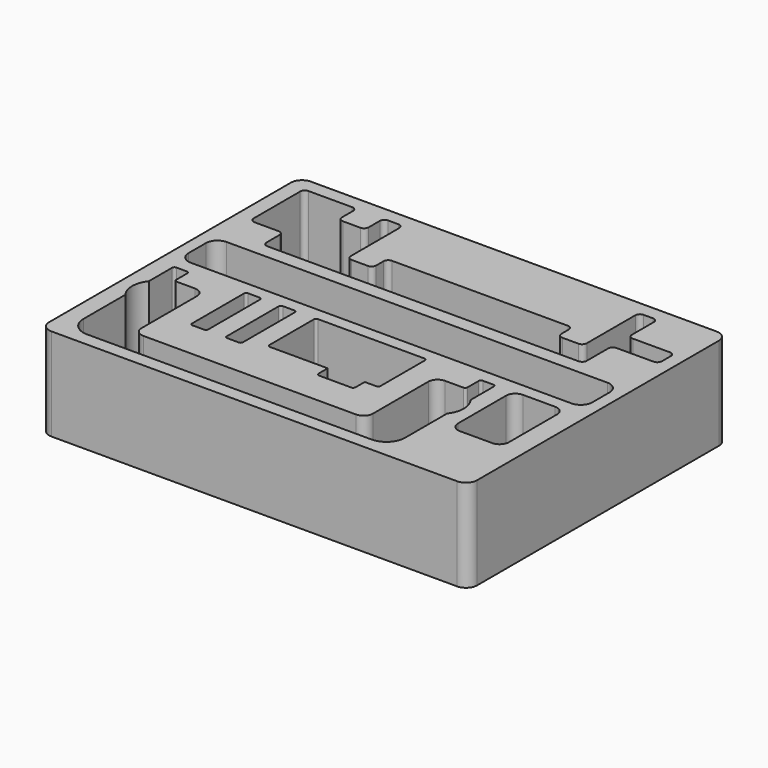
from build123d import *

# Parameters (mm, degrees)
F1_DEPTH = 50.8
F3_DEPTH = 50.8
F4_R     = 2.54
F5_R     = 2.54
F6_R     = 2.54
F8_DEPTH = 50.8


with BuildPart() as f1:
    # F0 (on Top) → F1 (new body)
    with BuildSketch(Plane.XY):
        with BuildLine():
            ThreePointArc((-111.331622, 89), (-115.642145, 87.214523), (-117.427622, 82.904))
            Line((-117.427622, 82.904), (-117.427622, -82.904))
            ThreePointArc((-117.427622, -82.904), (-115.642145, -87.214523), (-111.331622, -89))
            Line((-111.331622, -89), (111.331622, -89))
            ThreePointArc((111.331622, -89), (115.642145, -87.214523), (117.427622, -82.904))
            Line((117.427622, -82.904), (117.427622, 82.904))
            ThreePointArc((117.427622, 82.904), (115.642145, 87.214523), (111.331622, 89))
            Line((111.331622, 89), (-111.331622, 89))
        make_face()
    extrude(amount=F1_DEPTH)

    # F2 (on face) → F3 (cut)
    with BuildSketch(Plane.XY.offset(50.8)):
        with BuildLine():
            Line((104.473619, 22.683125), (-104.473626, 22.683125))
            ThreePointArc((-104.473626, 22.683125), (-108.963754, 20.823253), (-110.823626, 16.333125))
            Line((-110.823626, 16.333125), (-110.823626, 4.395125))
            ThreePointArc((-110.823626, 4.395125), (-108.963754, -0.095003), (-104.473626, -1.954875))
            Line((-104.473626, -1.954875), (104.473619, -1.954875))
            ThreePointArc((104.473619, -1.954875), (108.963747, -0.095003), (110.823619, 4.395125))
            Line((110.823619, 4.395125), (110.823619, 16.333125))
            ThreePointArc((110.823619, 16.333125), (108.963747, 20.823253), (104.473619, 22.683125))
        make_face()
        with BuildLine():
            ThreePointArc((-30.480004, -40.517802), (-30.108029, -41.415828), (-29.210004, -41.787802))
            Line((-29.210004, -41.787802), (2.539996, -41.787802))
            Line((2.539996, -41.787802), (22.859996, -41.787802))
            Line((22.859996, -41.787802), (29.209996, -41.787802))
            ThreePointArc((29.209996, -41.787802), (30.108022, -41.415828), (30.479996, -40.517802))
            Line((30.479996, -40.517802), (30.479996, -10.037802))
            ThreePointArc((30.479996, -10.037802), (30.108022, -9.139777), (29.209996, -8.767802))
            Line((29.209996, -8.767802), (-29.210004, -8.767802))
            ThreePointArc((-29.210004, -8.767802), (-30.108029, -9.139777), (-30.480004, -10.037802))
            Line((-30.480004, -10.037802), (-30.480004, -40.517802))
        make_face()
        with BuildLine():
            Line((22.859996, -41.787802), (2.539996, -41.787802))
            Line((2.539996, -41.787802), (2.539996, -48.137802))
            ThreePointArc((2.539996, -48.137802), (2.911971, -49.035828), (3.809996, -49.407802))
            Line((3.809996, -49.407802), (21.589996, -49.407802))
            ThreePointArc((21.589996, -49.407802), (22.488022, -49.035828), (22.859996, -48.137802))
            Line((22.859996, -48.137802), (22.859996, -41.787802))
        make_face()
        with BuildLine():
            ThreePointArc((83.165908, -8.767802), (79.573806, -10.2557), (78.085908, -13.847802))
            Line((78.085908, -13.847802), (78.085908, -46.867802))
            ThreePointArc((78.085908, -46.867802), (79.573806, -50.459905), (83.165908, -51.947802))
            Line((83.165908, -51.947802), (100.945908, -51.947802))
            ThreePointArc((100.945908, -51.947802), (104.538011, -50.459905), (106.025908, -46.867802))
            Line((106.025908, -46.867802), (106.025908, -13.847802))
            ThreePointArc((106.025908, -13.847802), (104.538011, -10.2557), (100.945908, -8.767802))
            Line((100.945908, -8.767802), (83.165908, -8.767802))
        make_face()
        with BuildLine():
            Line((-40.917659, -45.597802), (-40.917659, -10.037802))
            ThreePointArc((-40.917659, -10.037802), (-41.289633, -9.139777), (-42.187659, -8.767802))
            Line((-42.187659, -8.767802), (-48.537659, -8.767802))
            ThreePointArc((-48.537659, -8.767802), (-49.435685, -9.139777), (-49.807659, -10.037802))
            Line((-49.807659, -10.037802), (-49.807659, -45.597802))
            ThreePointArc((-49.807659, -45.597802), (-49.435685, -46.495828), (-48.537659, -46.867802))
            Line((-48.537659, -46.867802), (-42.187659, -46.867802))
            ThreePointArc((-42.187659, -46.867802), (-41.289633, -46.495828), (-40.917659, -45.597802))
        make_face()
        with BuildLine():
            Line((-90.887246, 81.525263), (-106.635246, 81.525263))
            ThreePointArc((-106.635246, 81.525263), (-108.431297, 80.781314), (-109.175246, 78.985263))
            Line((-109.175246, 78.985263), (-109.175246, 46.981263))
            ThreePointArc((-109.175246, 46.981263), (-108.431297, 45.185212), (-106.635246, 44.441263))
            Line((-106.635246, 44.441263), (-90.887246, 44.441263))
            Line((-90.887246, 44.441263), (-90.887246, 81.525263))
        make_face()
        with BuildLine():
            Line((-80.219246, 81.525263), (-90.887246, 81.525263))
            Line((-90.887246, 81.525263), (-90.887246, 44.441263))
            Line((-90.887246, 44.441263), (-90.887246, 33.011263))
            ThreePointArc((-90.887246, 33.011263), (-90.143297, 31.215212), (-88.347246, 30.471263))
            Line((-88.347246, 30.471263), (-54.819246, 30.471263))
            Line((-54.819246, 30.471263), (-54.819246, 43.171263))
            Line((-54.819246, 43.171263), (-54.819246, 78.985263))
            ThreePointArc((-54.819246, 78.985263), (-55.563195, 80.781314), (-57.359246, 81.525263))
            Line((-57.359246, 81.525263), (-65.487246, 81.525263))
            Line((-65.487246, 81.525263), (-65.487246, 71.365263))
            ThreePointArc((-65.487246, 71.365263), (-66.231195, 69.569212), (-68.027246, 68.825263))
            Line((-68.027246, 68.825263), (-77.679246, 68.825263))
            ThreePointArc((-77.679246, 68.825263), (-79.475297, 69.569212), (-80.219246, 71.365263))
            Line((-80.219246, 71.365263), (-80.219246, 81.525263))
        make_face()
        Polygon((-54.819246, 43.171263), (-54.819246, 30.471263), (74.720754, 30.471263), (74.720754, 43.171263), (60.750754, 43.171263), (-40.849246, 43.171263), align=None)
        with BuildLine():
            Line((74.720754, 43.171263), (74.720754, 30.471263))
            Line((74.720754, 30.471263), (82.340754, 30.471263))
            ThreePointArc((82.340754, 30.471263), (84.136805, 31.215212), (84.880754, 33.011263))
            Line((84.880754, 33.011263), (84.880754, 50.233088))
            Line((84.880754, 50.233088), (84.880754, 55.998263))
            Line((84.880754, 55.998263), (84.880754, 61.409088))
            Line((84.880754, 61.409088), (84.880754, 78.985263))
            ThreePointArc((84.880754, 78.985263), (84.136805, 80.781314), (82.340754, 81.525263))
            Line((82.340754, 81.525263), (77.260754, 81.525263))
            ThreePointArc((77.260754, 81.525263), (75.464703, 80.781314), (74.720754, 78.985263))
            Line((74.720754, 78.985263), (74.720754, 43.171263))
        make_face()
        with BuildLine():
            Line((-40.849246, 50.791263), (-40.849246, 43.171263))
            Line((-40.849246, 43.171263), (60.750754, 43.171263))
            Line((60.750754, 43.171263), (60.750754, 50.791263))
            ThreePointArc((60.750754, 50.791263), (60.006805, 52.587314), (58.210754, 53.331263))
            Line((58.210754, 53.331263), (-38.309246, 53.331263))
            ThreePointArc((-38.309246, 53.331263), (-40.105297, 52.587314), (-40.849246, 50.791263))
        make_face()
        with BuildLine():
            Line((84.880754, 55.998263), (84.880754, 50.233088))
            Line((84.880754, 50.233088), (107.740754, 50.233088))
            ThreePointArc((107.740754, 50.233088), (109.536805, 50.977037), (110.280754, 52.773088))
            Line((110.280754, 52.773088), (110.280754, 55.998263))
            Line((110.280754, 55.998263), (84.880754, 55.998263))
        make_face()
        with BuildLine():
            Line((84.880754, 61.409088), (84.880754, 55.998263))
            Line((84.880754, 55.998263), (110.280754, 55.998263))
            Line((110.280754, 55.998263), (110.280754, 58.869088))
            ThreePointArc((110.280754, 58.869088), (109.536805, 60.665139), (107.740754, 61.409088))
            Line((107.740754, 61.409088), (84.880754, 61.409088))
        make_face()
        with BuildLine():
            ThreePointArc((-61.237659, -46.867802), (-60.339633, -46.495828), (-59.967659, -45.597802))
            Line((-59.967659, -45.597802), (-59.967659, -10.037802))
            ThreePointArc((-59.967659, -10.037802), (-60.339633, -9.139777), (-61.237659, -8.767802))
            Line((-61.237659, -8.767802), (-67.587659, -8.767802))
            ThreePointArc((-67.587659, -8.767802), (-68.485685, -9.139777), (-68.857659, -10.037802))
            Line((-68.857659, -10.037802), (-68.857659, -45.597802))
            ThreePointArc((-68.857659, -45.597802), (-68.485685, -46.495828), (-67.587659, -46.867802))
            Line((-67.587659, -46.867802), (-61.237659, -46.867802))
        make_face()
    extrude(amount=-F3_DEPTH, mode=Mode.SUBTRACT)

    # F4
    f4_edges = [f1.edges().sort_by_distance(p)[0] for p in [
        (-54.819246, 43.171263, 25.4),
        (74.720754, 43.171263, 25.4),
        (84.880754, 50.233088, 25.4),
        (84.880754, 61.409088, 25.4),
        (-90.887246, 44.441263, 25.4),
    ]]
    fillet(f4_edges, radius=F4_R)

    # F5
    f5_edges = [f1.edges().sort_by_distance(p)[0] for p in [
        (-40.849246, 43.171263, 25.4),
        (60.750754, 43.171263, 25.4),
    ]]
    fillet(f5_edges, radius=F5_R)

    # F6
    f6_edges = [f1.edges().sort_by_distance(p)[0] for p in [
        (-80.219246, 81.525263, 25.4),
        (-65.487246, 81.525263, 25.4),
    ]]
    fillet(f6_edges, radius=F6_R)

    # F7 (on face) → F8 (cut)
    with BuildSketch(Plane.XY.offset(50.8)):
        with BuildLine():
            Line((25.847686, -67.664004), (-19.557998, -67.664004))
            Line((-19.557998, -67.664004), (-64.963682, -67.664004))
            Line((-64.963682, -67.664004), (-77.977998, -67.664004))
            ThreePointArc((-77.977998, -67.664004), (-81.570101, -66.176106), (-83.057998, -62.584004))
            Line((-83.057998, -62.584004), (-83.057998, -42.264004))
            Line((-83.057998, -42.264004), (-83.057998, -24.546178))
            ThreePointArc((-83.057998, -24.546178), (-84.545896, -20.954076), (-88.137998, -19.466178))
            Line((-88.137998, -19.466178), (-91.947998, -19.466178))
            Line((-91.947998, -19.466178), (-98.231429, -19.466178))
            ThreePointArc((-98.231429, -19.466178), (-99.129455, -19.094204), (-99.501429, -18.196178))
            Line((-99.501429, -18.196178), (-99.501429, -10.547931))
            ThreePointArc((-99.501429, -10.547931), (-99.873404, -9.649905), (-100.771429, -9.277931))
            Line((-100.771429, -9.277931), (-103.377998, -9.277931))
            Line((-103.377998, -9.277931), (-106.552998, -9.277931))
            ThreePointArc((-106.552998, -9.277931), (-107.451024, -9.649905), (-107.822998, -10.547931))
            Line((-107.822998, -10.547931), (-107.822998, -26.591364))
            Line((-107.822998, -26.591364), (-107.822998, -42.623485))
            Line((-107.822998, -42.623485), (-107.822998, -71.474004))
            ThreePointArc((-107.822998, -71.474004), (-104.847203, -78.658208), (-97.662998, -81.634004))
            Line((-97.662998, -81.634004), (-19.557998, -81.634004))
            Line((-19.557998, -81.634004), (58.547002, -81.634004))
            ThreePointArc((58.547002, -81.634004), (65.731206, -78.658208), (68.707002, -71.474004))
            Line((68.707002, -71.474004), (68.707002, -42.623485))
            Line((68.707002, -42.623485), (68.707002, -26.591364))
            Line((68.707002, -26.591364), (68.707002, -10.547931))
            ThreePointArc((68.707002, -10.547931), (68.335027, -9.649905), (67.437002, -9.277931))
            Line((67.437002, -9.277931), (64.262002, -9.277931))
            Line((64.262002, -9.277931), (61.655433, -9.277931))
            ThreePointArc((61.655433, -9.277931), (60.757407, -9.649905), (60.385433, -10.547931))
            Line((60.385433, -10.547931), (60.385433, -18.196178))
            ThreePointArc((60.385433, -18.196178), (60.013458, -19.094204), (59.115433, -19.466178))
            Line((59.115433, -19.466178), (52.832002, -19.466178))
            Line((52.832002, -19.466178), (49.022002, -19.466178))
            ThreePointArc((49.022002, -19.466178), (45.429899, -20.954076), (43.942002, -24.546178))
            Line((43.942002, -24.546178), (43.942002, -42.264004))
            Line((43.942002, -42.264004), (43.942002, -62.584004))
            ThreePointArc((43.942002, -62.584004), (42.454104, -66.176106), (38.862002, -67.664004))
            Line((38.862002, -67.664004), (25.847686, -67.664004))
        make_face()
        with BuildLine():
            Line((-107.822998, -42.623485), (-107.822998, -26.591364))
            ThreePointArc((-107.822998, -26.591364), (-110.597907, -34.607425), (-107.822998, -42.623485))
        make_face()
        with BuildLine():
            ThreePointArc((68.707002, -42.623485), (71.48191, -34.607425), (68.707002, -26.591364))
            Line((68.707002, -26.591364), (68.707002, -42.623485))
        make_face()
    extrude(amount=-F8_DEPTH, mode=Mode.SUBTRACT)


solid = f1.part
